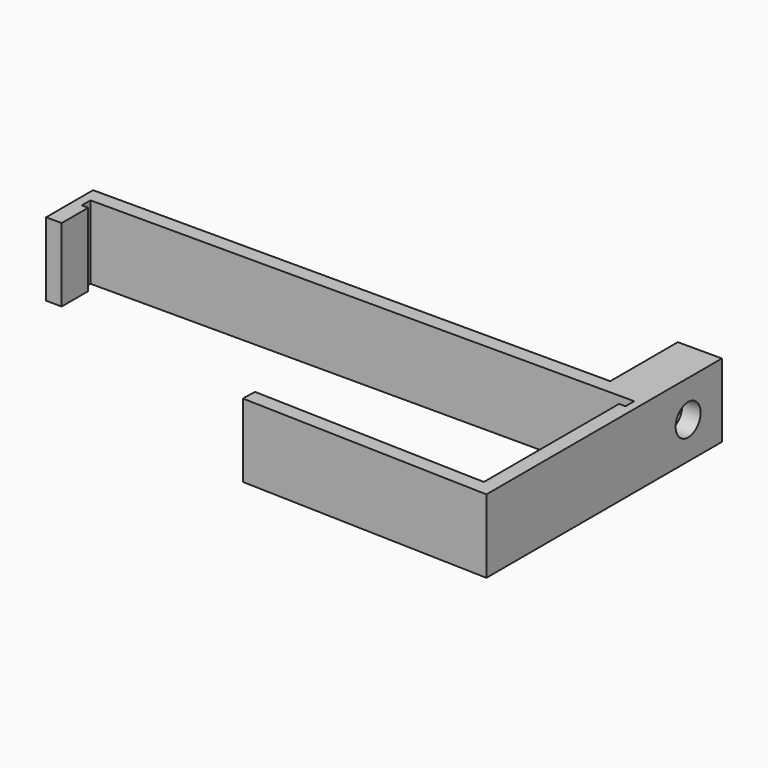
from build123d import *

# Parameters (mm, degrees)
F1_DEPTH = 10
F3_DEPTH = 3.5
F4_R     = 2.125
F5_DEPTH = 2.5


with BuildPart() as f1:
    # F0 (on Top) → F1 (new body)
    with BuildSketch(Plane.XY):
        Polygon((-75.125, 26.563603), (-1.125, 26.563603), (-1.125, 25.063603), (-2, 25.063603), (-2, 2.063603), (-33.937408, 3.063603), (-34, 1.064582), (0, 0), (0, 40.063603), (-6, 40.063603), (-6, 28.563603), (-76.375, 28.563603), (-76.375, 20.563603), (-74.25, 20.563603), (-74.25, 25.063603), (-75.125, 25.063603), align=None)
    extrude(amount=F1_DEPTH)

    # F2 (on face) → F3 (cut)
    with BuildSketch(Plane(origin=(-6, 0, 0), x_dir=(0, -1, 0), z_dir=(-1, 0, 0))):
        Polygon((-30.563603, 2.834936), (-30.563603, 7.165064), (-34.313603, 9.330127), (-38.063603, 7.165064), (-38.063603, 2.834936), (-34.313603, 0.669873), align=None)
    extrude(amount=-F3_DEPTH, mode=Mode.SUBTRACT)

    # F4 (on face) → F5 (cut, through all)
    with BuildSketch(Plane(origin=(-2.5, 0, 0), x_dir=(0, -1, 0), z_dir=(-1, 0, 0))):
        with Locations((-34.313603, 5)):
            Circle(F4_R)
    extrude(amount=-F5_DEPTH, mode=Mode.SUBTRACT)


solid = f1.part
